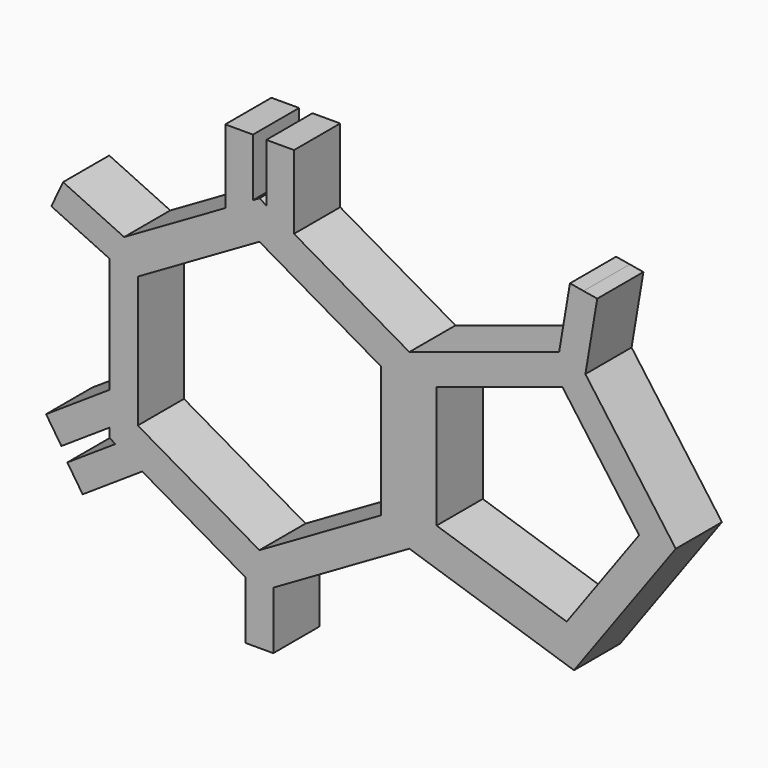
from build123d import *

# Parameters (mm, degrees)
F1_DEPTH = 6.35
F3_DEPTH = 60.96


with BuildPart() as f1:
    # F0 (on Front) → F1 (new body)
    with BuildSketch(Plane.XZ):
        Polygon((0.762, 18.610059), (0, 19.05), (-0.710735, 18.639657), (-3.758735, 16.879893), (-14.88736, 10.454779), (-16.497784, 9.525), (-16.497784, 7.842908), (-16.497784, 0), (-16.497784, -4.870526), (-16.497784, -8.526968), (-16.497784, -9.525), (-15.84291, -9.903091), (-12.894138, -11.605566), (-1.524, -18.170118), (0, -19.05), (1.524, -18.170118), (16.497784, -9.525), (16.497784, 0), (16.497784, 9.525), (3.81, 16.850295), align=None)
        Polygon((0.762, 24.960059), (0.762, 18.610059), (3.81, 16.850295), (3.81, 24.960059), align=None)
        Polygon((-3.758735, 16.879893), (-0.710735, 18.639657), (-0.710735, 24.989657), (-3.758735, 24.989657), align=None)
        Polygon((32.980273, 14.880485), (16.497784, 9.525), (16.497784, 0), (16.497784, -9.525), (34.615411, -15.411774), (45.81272, 0), (35.869741, 13.685336), (34.615411, 15.411774), align=None)
        Polygon((-16.497784, 9.525), (-14.88736, 10.454779), (-21.605948, 13.593383), (-22.250976, 12.212617), (-22.896004, 10.831851), (-16.497784, 7.842908), align=None)
        Polygon((34.168763, 21.926801), (32.980273, 14.880485), (34.615411, 15.411774), (35.869741, 13.685336), (37.17431, 21.419861), (35.671536, 21.673331), align=None)
        Polygon((1.524, -24.520118), (1.524, -18.170118), (0, -19.05), (-1.524, -18.170118), (-1.524, -24.520118), (0, -24.520118), align=None)
        Polygon((-16.497784, -8.526968), (-16.497784, -4.870526), (-23.474759, -9.49373), (-21.791126, -12.034534), align=None)
        Polygon((-19.452621, -15.951463), (-12.894138, -11.605566), (-15.84291, -9.903091), (-21.136253, -13.410658), align=None)
    extrude(amount=F1_DEPTH)

    # F2 (on face) → F3 (cut)
    with BuildSketch(Plane.XZ):
        Polygon((13.382281, 7.118522), (0, 14.844785), (-13.382281, 7.118522), (-13.382281, -7.308772), (0, -15.035036), (13.382281, -7.308772), align=None)
        Polygon((19.496603, 7.118522), (19.496603, -6.312186), (33.812493, -10.9637), (41.778088, 0), (33.338541, 11.61604), align=None)
    extrude(amount=F3_DEPTH, mode=Mode.SUBTRACT)


solid = f1.part
